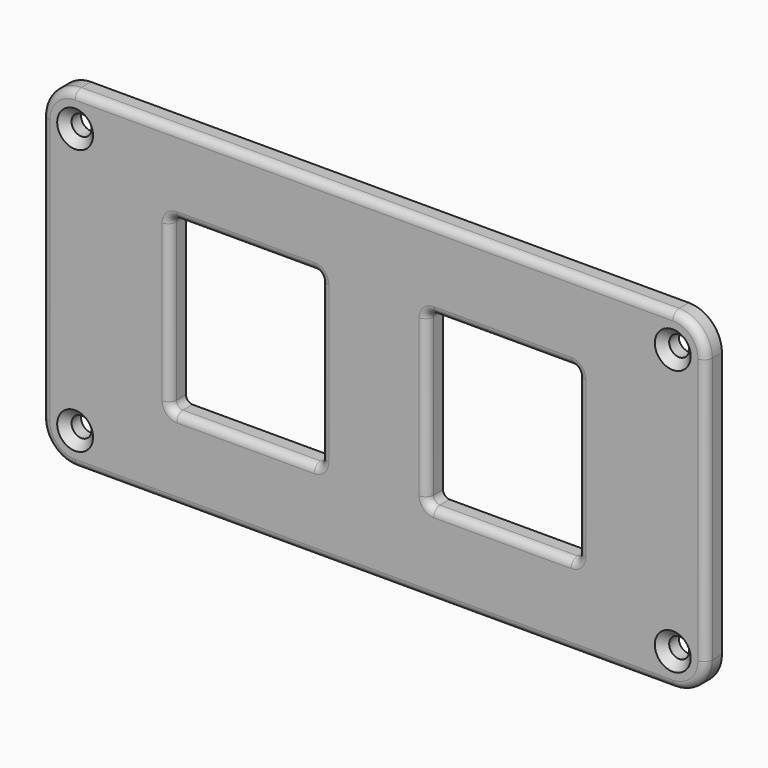
from build123d import *

# Parameters (mm, degrees)
F0_R     = 1.905
F1_DEPTH = 3.81
F2_R     = 1.524
F3_SIZE  = 1.524


with BuildPart() as f1:
    # F0 (on Front) → F1 (new body)
    with BuildSketch(Plane.XZ):
        with BuildLine():
            ThreePointArc((63.5, 25.4), (61.640128, 29.890128), (57.15, 31.75))
            Line((57.15, 31.75), (-57.15, 31.75))
            ThreePointArc((-57.15, 31.75), (-61.640128, 29.890128), (-63.5, 25.4))
            Line((-63.5, 25.4), (-63.5, -25.4))
            ThreePointArc((-63.5, -25.4), (-61.640128, -29.890128), (-57.15, -31.75))
            Line((-57.15, -31.75), (57.15, -31.75))
            ThreePointArc((57.15, -31.75), (61.640128, -29.890128), (63.5, -25.4))
            Line((63.5, -25.4), (63.5, 25.4))
        make_face()
        with Locations((-57.15, -25.4)):
            Circle(F0_R, mode=Mode.SUBTRACT)
        with Locations((57.15, -25.4)):
            Circle(F0_R, mode=Mode.SUBTRACT)
        with BuildLine():
            ThreePointArc((-38.989, 14.986), (-38.617026, 15.884026), (-37.719, 16.256))
            Line((-37.719, 16.256), (-11.43, 16.256))
            ThreePointArc((-11.43, 16.256), (-10.531974, 15.884026), (-10.16, 14.986))
            Line((-10.16, 14.986), (-10.16, -14.986))
            ThreePointArc((-10.16, -14.986), (-10.531974, -15.884026), (-11.43, -16.256))
            Line((-11.43, -16.256), (-37.719, -16.256))
            ThreePointArc((-37.719, -16.256), (-38.617026, -15.884026), (-38.989, -14.986))
            Line((-38.989, -14.986), (-38.989, 14.986))
        make_face(mode=Mode.SUBTRACT)
        with Locations((-57.15, 25.4)):
            Circle(F0_R, mode=Mode.SUBTRACT)
        with BuildLine():
            ThreePointArc((10.16, 14.986), (10.531974, 15.884026), (11.43, 16.256))
            Line((11.43, 16.256), (37.719, 16.256))
            ThreePointArc((37.719, 16.256), (38.617026, 15.884026), (38.989, 14.986))
            Line((38.989, 14.986), (38.989, -14.986))
            ThreePointArc((38.989, -14.986), (38.617026, -15.884026), (37.719, -16.256))
            Line((37.719, -16.256), (11.43, -16.256))
            ThreePointArc((11.43, -16.256), (10.531974, -15.884026), (10.16, -14.986))
            Line((10.16, -14.986), (10.16, 14.986))
        make_face(mode=Mode.SUBTRACT)
        with Locations((57.15, 25.4)):
            Circle(F0_R, mode=Mode.SUBTRACT)
    extrude(amount=F1_DEPTH)

    # F2
    f2_edges = [f1.edges().sort_by_distance(p)[0] for p in [
        (-38.989, -3.81, 0),
        (10.16, -3.81, 0),
        (-63.5, -3.81, 0),
    ]]
    fillet(f2_edges, radius=F2_R)

    # F3
    f3_edges = [f1.edges().sort_by_distance(p)[0] for p in [
        (-59.055, -3.81, 25.4),
        (-59.055, -3.81, -25.4),
        (55.245, -3.81, -25.4),
        (55.245, -3.81, 25.4),
    ]]
    chamfer(f3_edges, length=F3_SIZE)


solid = f1.part
